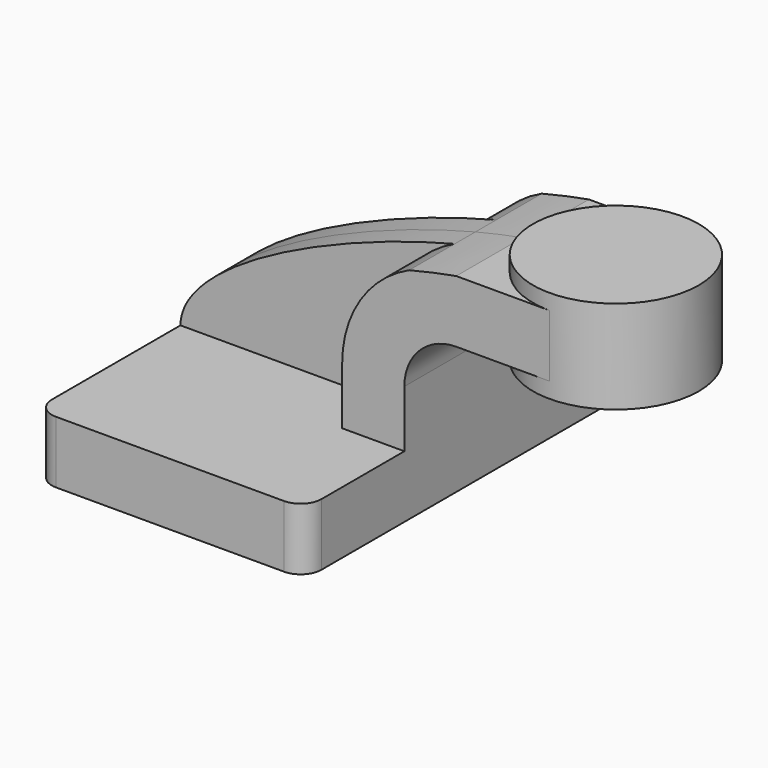
from build123d import *

# Parameters (mm, degrees)
F1_DEPTH = 25.4
F2_DEPTH = 63.5
F0_W     = 25.4
F0_H     = 19.05
F3_DEPTH = 25.4
F4_DEPTH = 7.9375
F6_R     = 6.35


with BuildPart() as f1:
    # F0 (on Front) → F1 (new body, symmetric)
    with BuildSketch(Plane.XZ):
        with BuildLine():
            Line((22.225, 9.525), (41.275, 9.525))
            Line((41.275, 9.525), (41.275, 27.0002))
            ThreePointArc((41.275, 27.0002), (45.9246798487, 38.2255201513), (57.15, 42.8752))
            Line((57.15, 42.8752), (60.325, 42.8752))
            Line((60.325, 42.8752), (60.325, 61.9252))
            Line((60.325, 61.9252), (57.15, 61.9252))
            add(Edge.make_bspline(
                [(42.7127144253, 58.8014642867), (47.7105898619, 60.0589943482), (52.5646894351, 61.1113536109), (57.15, 61.9252)],
                knots=[98.4748770182, 98.4748770182, 98.4748770182, 98.4748770182, 111.5045361635, 111.5045361635, 111.5045361635, 111.5045361635], degree=3))
            ThreePointArc((42.7127144253, 58.8014642867), (27.7903523208, 45.9149221273), (22.225, 27.0002))
            Line((22.225, 27.0002), (22.225, 9.525))
        make_face()
    extrude(amount=F1_DEPTH, both=True)

    # F0 (on Front) → F2 (join, symmetric)
    with BuildSketch(Plane.XZ):
        Polygon((-41.275, 9.525), (-41.275, -9.525), (41.275, -9.525), (41.275, 9.525), (22.225, 9.525), align=None)
    extrude(amount=F2_DEPTH, both=True)

    # F0 (on Front) → F3 (join, symmetric)
    with BuildSketch(Plane.XZ):
        with Locations((73.025, 52.4002)):
            Rectangle(F0_W, F0_H)
    extrude(amount=F3_DEPTH, both=True)

    # F0 (on Front) → F4 (join, symmetric)
    with BuildSketch(Plane.XZ):
        with BuildLine():
            add(Edge.make_bspline(
                [(-41.275, 9.525), (-41.0450619482, 28.0740104244), (4.9400326168, 49.2973693012), (42.7127144253, 58.8014642867)],
                knots=[0, 0, 0, 0, 98.4748770182, 98.4748770182, 98.4748770182, 98.4748770182], degree=3))
            Line((-41.275, 9.525), (22.225, 9.525))
            Line((22.225, 9.525), (22.225, 27.0002))
            ThreePointArc((22.225, 27.0002), (27.7903523208, 45.9149221273), (42.7127144253, 58.8014642867))
        make_face()
    extrude(amount=F4_DEPTH, both=True)

    # F6
    f6_edges = [f1.edges().sort_by_distance(p)[0] for p in [
        (41.275, -63.5, 0),
        (-41.275, -63.5, 0),
        (41.275, 63.5, 0),
        (-41.275, 63.5, 0),
    ]]
    fillet(f6_edges, radius=F6_R)


with BuildPart() as f5:
    # F0 (on Front) → F5 (revolve)
    with BuildSketch(Plane.XZ):
        Polygon((85.725, 66.675), (85.725, 61.9252), (85.725, 42.8752), (85.725, 38.1), (111.125, 38.1), (111.125, 66.675), align=None)
    revolve(axis=Axis((85.725, 0, 52.3875), (0, 0, -1)))


solid = Compound([f1.part, f5.part])
